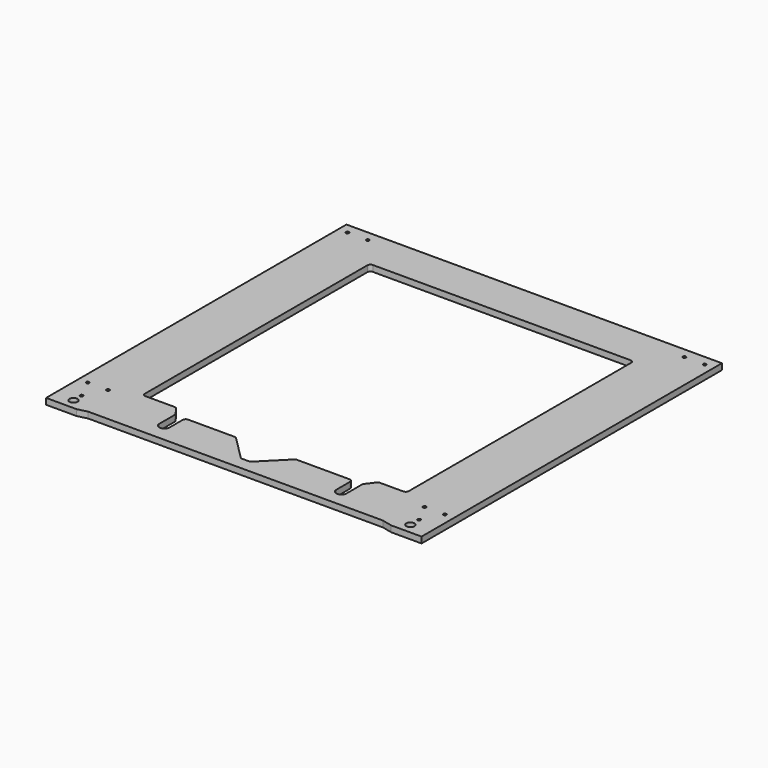
from build123d import *

# Parameters (mm, degrees)
F0_R     = 4
F0_R_2   = 1.5
F1_DEPTH = 6


with BuildPart() as f1:
    # F0 (on Top) → F1 (new body)
    with BuildSketch(Plane.XY):
        Polygon((185, 185), (-185, 185), (-185, -185), (-155, -185), (-145.34165, -182.651207), (145.154789, -182.651207), (155, -185), (185, -185), align=None)
        with Locations((-166, -175)):
            Circle(F0_R, mode=Mode.SUBTRACT)
        with Locations((-166, -165)):
            Circle(F0_R_2, mode=Mode.SUBTRACT)
        with Locations((-176, -145)):
            Circle(F0_R_2, mode=Mode.SUBTRACT)
        with Locations((-156, -145)):
            Circle(F0_R_2, mode=Mode.SUBTRACT)
        with Locations((166, -175)):
            Circle(F0_R, mode=Mode.SUBTRACT)
        with Locations((166, -164.2)):
            Circle(F0_R_2, mode=Mode.SUBTRACT)
        with Locations((156, -145)):
            Circle(F0_R_2, mode=Mode.SUBTRACT)
        with Locations((176, -145)):
            Circle(F0_R_2, mode=Mode.SUBTRACT)
        with BuildLine():
            ThreePointArc((-130, 142.348793), (-129.014539, 144.241247), (-127.020345, 145))
            Line((-127.020345, 145), (127.020345, 145))
            ThreePointArc((127.020345, 145), (129.014539, 144.241247), (130, 142.348793))
            Line((130, 142.348793), (130, -132))
            ThreePointArc((130, -132), (129.12132, -134.12132), (127, -135))
            Line((127, -135), (104, -135))
            ThreePointArc((104, -135), (102.658359, -135.316718), (101.6, -136.2))
            Line((101.6, -136.2), (95.6, -144.2))
            ThreePointArc((95.6, -144.2), (95.15395, -145.051317), (95, -146))
            Line((95, -146), (95, -165))
            ThreePointArc((95, -165), (90, -170), (85, -165))
            Line((85, -165), (85, -148))
            ThreePointArc((85, -148), (84.12132, -145.87868), (82, -145))
            Line((82, -145), (30.242641, -145))
            ThreePointArc((30.242641, -145), (29.09459, -145.228361), (28.12132, -145.87868))
            Line((28.12132, -145.87868), (4, -170))
            Line((4, -170), (-0.5, -170))
            Line((-0.5, -170), (-4.999919, -169.972975))
            Line((-4.999919, -169.972975), (-29.121436, -145.877533))
            ThreePointArc((-29.121436, -145.877533), (-30.094308, -145.228051), (-31.241609, -145))
            Line((-31.241609, -145), (-77, -145))
            ThreePointArc((-77, -145), (-79.12132, -145.87868), (-80, -148))
            Line((-80, -148), (-80, -164.2))
            ThreePointArc((-80, -164.2), (-85, -169.2), (-90, -164.2))
            Line((-90, -164.2), (-90, -145.2))
            ThreePointArc((-90, -145.2), (-90.15395, -144.251317), (-90.6, -143.4))
            Line((-90.6, -143.4), (-96, -136.2))
            ThreePointArc((-96, -136.2), (-97.058359, -135.316718), (-98.4, -135))
            Line((-98.4, -135), (-127, -135))
            ThreePointArc((-127, -135), (-129.12132, -134.12132), (-130, -132))
            Line((-130, -132), (-130, 142.348793))
        make_face(mode=Mode.SUBTRACT)
        with Locations((-176, 175)):
            Circle(F0_R_2, mode=Mode.SUBTRACT)
        with Locations((-156, 175)):
            Circle(F0_R_2, mode=Mode.SUBTRACT)
        with Locations((156, 175)):
            Circle(F0_R_2, mode=Mode.SUBTRACT)
        with Locations((176, 175)):
            Circle(F0_R_2, mode=Mode.SUBTRACT)
    extrude(amount=F1_DEPTH)


solid = f1.part
